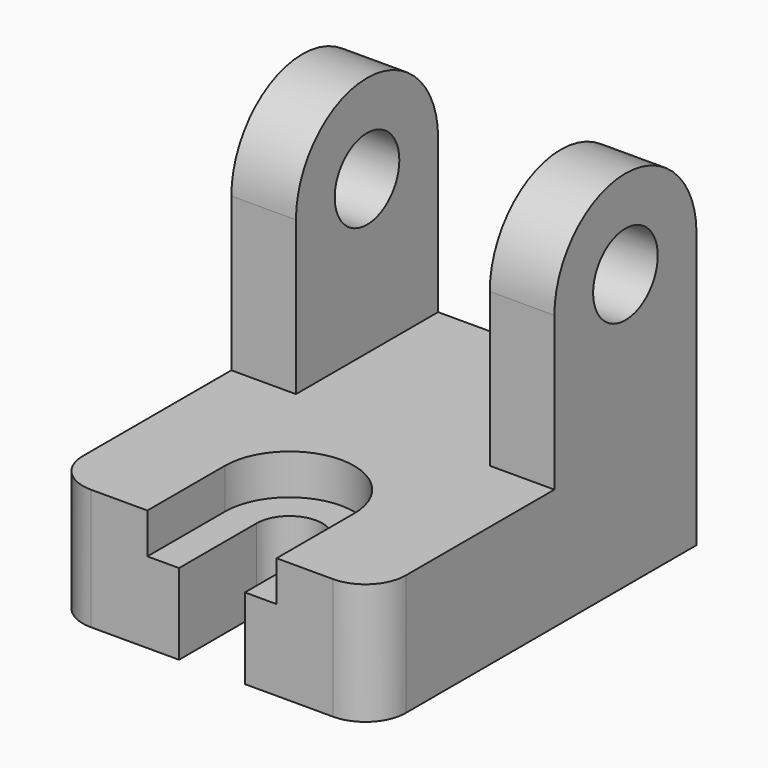
from build123d import *

# Parameters (mm, degrees)
F0_R     = 10
F1_DEPTH = 40
F2_DEPTH = 24
F3_W     = 7.84
F3_H     = 5
F3_W_2   = 16.32
F4_DEPTH = 10
F3_H_2   = 24
F5_DEPTH = 30
F6_R     = 10


with BuildPart() as f1:
    # F0 (on Right) → F1 (new body, symmetric)
    with BuildSketch(Plane.YZ):
        Polygon((0, 30), (0, 0), (100, 0), (100, 30), (56, 30), align=None)
        with BuildLine():
            Line((56, 68), (56, 30))
            Line((56, 30), (100, 30))
            Line((100, 30), (100, 68))
            ThreePointArc((100, 68), (78, 46), (56, 68))
        make_face()
        with BuildLine():
            ThreePointArc((100, 68), (78, 90), (56, 68))
            ThreePointArc((56, 68), (78, 46), (100, 68))
        make_face()
        with Locations((78, 68)):
            Circle(F0_R, mode=Mode.SUBTRACT)
    extrude(amount=F1_DEPTH, both=True)

    # F0 (on Right) → F2 (cut, symmetric)
    with BuildSketch(Plane.YZ):
        with BuildLine():
            Line((56, 68), (56, 30))
            Line((56, 30), (100, 30))
            Line((100, 30), (100, 68))
            ThreePointArc((100, 68), (78, 46), (56, 68))
        make_face()
        with BuildLine():
            ThreePointArc((100, 68), (78, 90), (56, 68))
            ThreePointArc((56, 68), (78, 46), (100, 68))
        make_face()
        with Locations((78, 68)):
            Circle(F0_R, mode=Mode.SUBTRACT)
    extrude(amount=F2_DEPTH, both=True, mode=Mode.SUBTRACT)

    # F3 (on face) → F4 (cut)
    with BuildSketch(Plane.XY.offset(30)):
        with Locations((-12.08, 2.5)):
            Rectangle(F3_W, F3_H)
        with BuildLine():
            Line((-16, 24), (-16, 5))
            Line((-16, 5), (-8.16, 5))
            Line((-8.16, 5), (-8.16, 24))
            ThreePointArc((-8.16, 24), (0, 32.16), (8.16, 24))
            Line((8.16, 24), (8.16, 5))
            Line((8.16, 5), (16, 5))
            Line((16, 5), (16, 24))
            ThreePointArc((16, 24), (0, 40), (-16, 24))
        make_face()
        with Locations((12.08, 2.5)):
            Rectangle(F3_W, F3_H)
        with Locations((0, 2.5)):
            Rectangle(F3_W_2, F3_H)
        with BuildLine():
            Line((-8.16, 24), (-8.16, 5))
            Line((-8.16, 5), (8.16, 5))
            Line((8.16, 5), (8.16, 24))
            ThreePointArc((8.16, 24), (0, 32.16), (-8.16, 24))
        make_face()
    extrude(amount=-F4_DEPTH, mode=Mode.SUBTRACT)

    # F3 (on face) → F5 (cut, through all)
    with BuildSketch(Plane.XY.offset(30)):
        with BuildLine():
            Line((-8.16, 24), (-8.16, 5))
            Line((-8.16, 5), (8.16, 5))
            Line((8.16, 5), (8.16, 24))
            ThreePointArc((8.16, 24), (0, 32.16), (-8.16, 24))
        make_face()
        with Locations((0, 2.5)):
            Rectangle(F3_W_2, F3_H)
        with Locations((0, -12)):
            Rectangle(F3_W_2, F3_H_2)
    extrude(amount=-F5_DEPTH, mode=Mode.SUBTRACT)

    # F6
    f6_edges = [f1.edges().sort_by_distance(p)[0] for p in [
        (-40, 0, 15),
        (40, 0, 15),
    ]]
    fillet(f6_edges, radius=F6_R)


solid = f1.part
